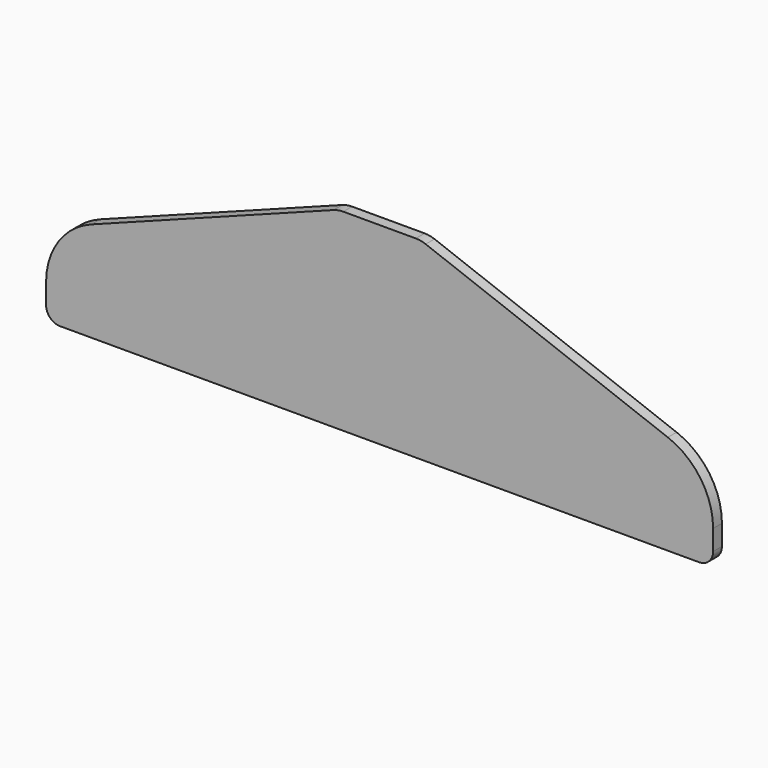
from build123d import *

# Parameters (mm, degrees)
F1_DEPTH = 2
F2_R     = 12.7
F3_R     = 2.54
F4_R     = 5.08


with BuildPart() as f1:
    # F0 (on Front) → F1 (new body)
    with BuildSketch(Plane.XZ):
        Polygon((-60.4972, 15), (-60.4972, 0), (60.5028, 0), (60.5028, 15), (7.4943, 35), (-7.5057, 35), align=None)
    extrude(amount=F1_DEPTH)

    # F2
    f2_edges = [f1.edges().sort_by_distance(p)[0] for p in [
        (-60.4972, -1, 15),
        (60.5028, -1, 15),
    ]]
    fillet(f2_edges, radius=F2_R)

    # F3
    f3_edges = [f1.edges().sort_by_distance(p)[0] for p in [
        (-60.4972, -1, 0),
        (60.5028, -1, 0),
    ]]
    fillet(f3_edges, radius=F3_R)

    # F4
    f4_edges = [f1.edges().sort_by_distance(p)[0] for p in [
        (-7.5057, -1, 35),
        (7.4943, -1, 35),
    ]]
    fillet(f4_edges, radius=F4_R)


solid = f1.part
